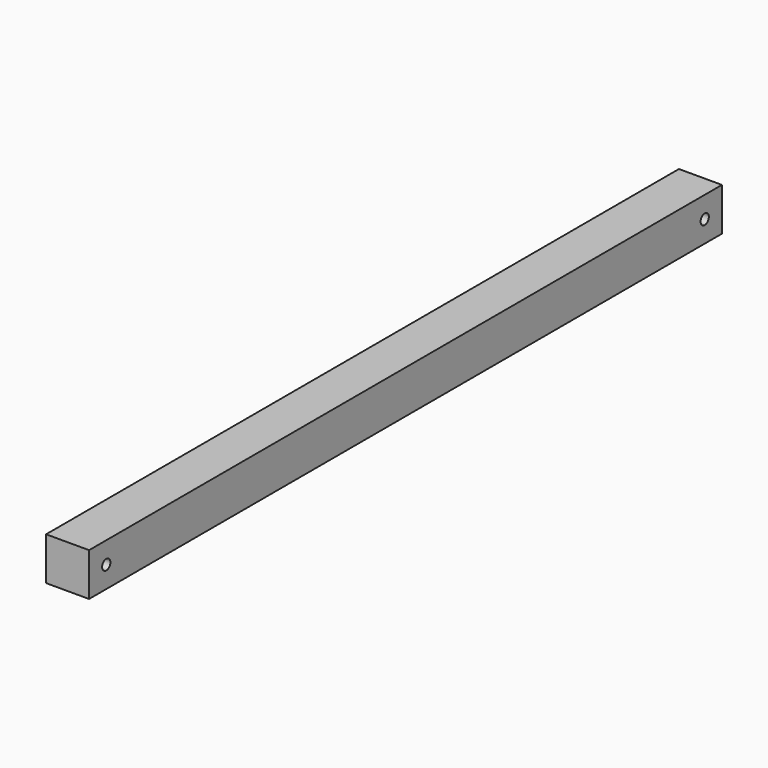
from build123d import *

# Parameters (mm, degrees)
F0_W     = 63.5
F0_H     = 63.5
F1_DEPTH = 1168.4
F3_DEPTH = 25.4
F4_DEPTH = 63.5
F5_W     = 25.4
F5_H     = 63.5
F6_DEPTH = 63.5
F8_DEPTH = 76.2


with BuildPart() as f1:
    # F0 (on Front) → F1 (new body)
    with BuildSketch(Plane.XZ):
        with Locations((-65.2197142243, 64.7908774316)):
            Rectangle(F0_W, F0_H)
    extrude(amount=-F1_DEPTH)

    # F2 (on face) → F3 (join)
    with BuildSketch(Plane(origin=(-96.9697142243, 0, 0), x_dir=(0, -1, 0), z_dir=(-1, 0, 0))):
        with BuildLine():
            Line((-1168.4, 96.5408774316), (-1168.4, 33.0408774316))
            Line((-1168.4, 33.0408774316), (-1136.65, 33.0408774316))
            Line((-1136.65, 33.0408774316), (-1136.65, 57.1708774316))
            ThreePointArc((-1136.65, 57.1708774316), (-1144.27, 64.7908774316), (-1136.65, 72.4108774316))
            Line((-1136.65, 72.4108774316), (-1136.65, 96.5408774316))
            Line((-1136.65, 96.5408774316), (-1168.4, 96.5408774316))
        make_face()
        with BuildLine():
            Line((-1136.65, 57.1708774316), (-1136.65, 33.0408774316))
            Line((-1136.65, 33.0408774316), (-1104.9, 33.0408774316))
            Line((-1104.9, 33.0408774316), (-1104.9, 96.5408774316))
            Line((-1104.9, 96.5408774316), (-1136.65, 96.5408774316))
            Line((-1136.65, 96.5408774316), (-1136.65, 72.4108774316))
            ThreePointArc((-1136.65, 72.4108774316), (-1131.2618463274, 70.1790311043), (-1129.03, 64.7908774316))
            ThreePointArc((-1129.03, 64.7908774316), (-1131.2618463274, 59.402723759), (-1136.65, 57.1708774316))
        make_face()
    extrude(amount=F3_DEPTH)

    # F4 (cut): a face of the model
    f4_faces = [f1.faces().sort_by_distance(p)[0] for p in [
        (-96.9697142243, 1136.65, 64.7908774316),
    ]]
    extrude(f4_faces, amount=-F4_DEPTH, mode=Mode.SUBTRACT)

    # F5 (on face) → F6 (cut)
    with BuildSketch(Plane.XY.offset(96.5408774316)):
        with Locations((-109.6697142243, 1136.65)):
            Rectangle(F5_W, F5_H)
    extrude(amount=-F6_DEPTH, mode=Mode.SUBTRACT)

    # F7 (on face) → F8 (cut)
    with BuildSketch(Plane(origin=(-96.9697142243, 0, 0), x_dir=(0, -1, 0), z_dir=(-1, 0, 0))):
        with BuildLine():
            ThreePointArc((-24.13, 64.7908774316), (-26.3618463274, 70.1790311043), (-31.75, 72.4108774316))
            Line((-31.75, 72.4108774316), (-31.75, 57.1708774316))
            ThreePointArc((-31.75, 57.1708774316), (-26.3618463274, 59.402723759), (-24.13, 64.7908774316))
        make_face()
        with BuildLine():
            Line((-31.75, 57.1708774316), (-31.75, 72.4108774316))
            ThreePointArc((-31.75, 72.4108774316), (-39.37, 64.7908774316), (-31.75, 57.1708774316))
        make_face()
    extrude(amount=-F8_DEPTH, mode=Mode.SUBTRACT)


solid = f1.part
